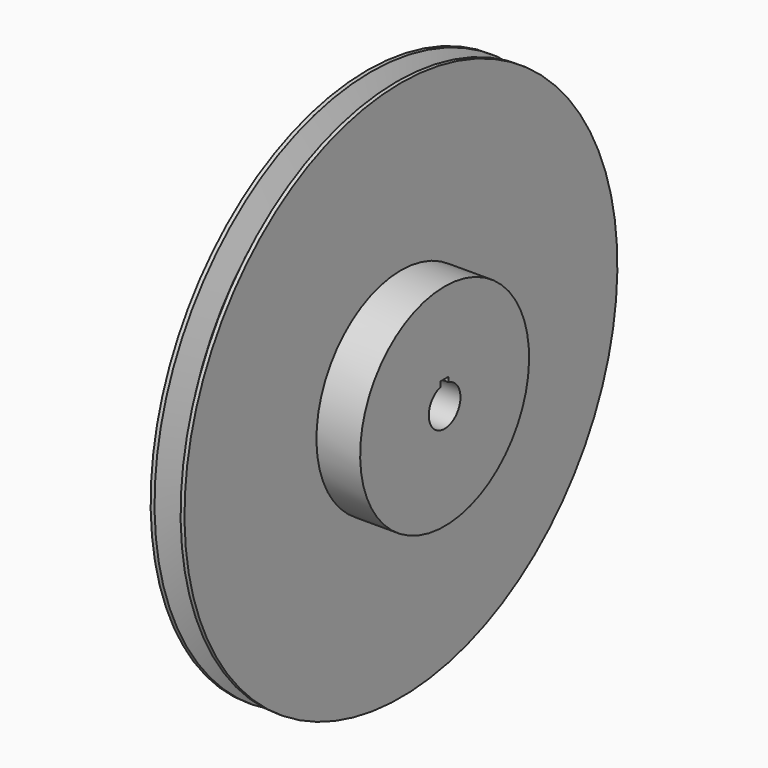
from build123d import *

# Parameters (mm, degrees)
F3_DEPTH      = 8.1417
F3_DEPTH_BACK = 29.16655


with BuildPart() as f1:
    # F0 (on Front) → F1 (revolve)
    with BuildSketch(Plane.XZ):
        Polygon((-8.1407, 9.525), (8.1407, 9.525), (29.16555, 9.525), (29.16555, 50.8), (8.1407, 50.8), (8.1407, 130.175), (6.2738, 130.175), (2.4003, 117.475), (-2.4003, 117.475), (-6.2738, 130.175), (-8.1407, 130.175), align=None)
    revolve(axis=Axis((-25.9663593024, 0, 0), (-1, 0, 0)))

    # F2 (on Right) → F3 (cut, two sides)
    with BuildSketch(Plane.YZ) as f3_sk:
        with BuildLine():
            Line((2.38125, 11.5951), (-2.38125, 11.5951))
            Line((-2.38125, 11.5951), (-2.38125, 9.2225415932))
            ThreePointArc((-2.38125, 9.2225415932), (0, -9.525), (2.38125, 9.2225415932))
            Line((2.38125, 9.2225415932), (2.38125, 11.5951))
        make_face()
    extrude(amount=-F3_DEPTH, mode=Mode.SUBTRACT)
    extrude(f3_sk.sketch, amount=F3_DEPTH_BACK, mode=Mode.SUBTRACT)


solid = f1.part
